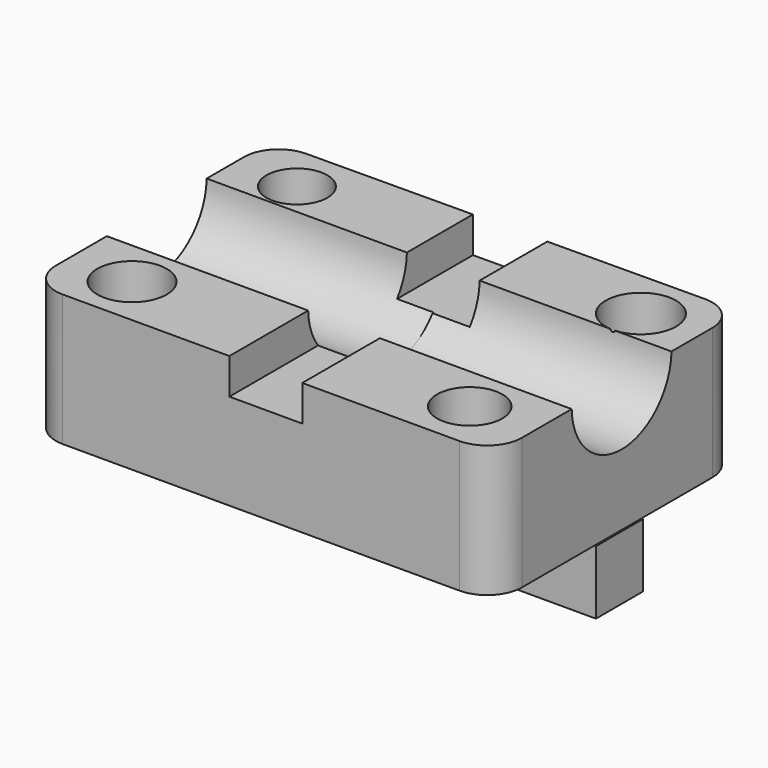
from build123d import *

# Parameters (mm, degrees)
F0_R      = 6.369353
F0_R_2    = 5.980064
F0_R_3    = 5.586292
F0_R_4    = 6.448317
F1_DEPTH  = 24.13
F2_W      = 13.556814
F2_H      = 8.429615
F3_DEPTH  = 37.846
F4_W      = 13.355822
F4_H      = 12.236101
F5_DEPTH  = 46.736
F6_R      = 11.43
F7_DEPTH  = 53.594
F8_R      = 11.43
F9_DEPTH  = 57.404
F10_W     = 85.677572
F10_H     = 10.745444
F11_DEPTH = 11.684


with BuildPart() as f1:
    # F0 (on Top) → F1 (new body)
    with BuildSketch(Plane.XY):
        with BuildLine():
            ThreePointArc((-37.110602, 26.470889), (-41.57278, 24.595866), (-43.417405, 20.121036))
            Line((-43.417405, 20.121036), (-43.417405, -22.982161))
            ThreePointArc((-43.417405, -22.982161), (-41.557533, -27.472289), (-37.067405, -29.332161))
            Line((-37.067405, -29.332161), (35.615317, -29.332161))
            ThreePointArc((35.615317, -29.332161), (40.105445, -27.472289), (41.965317, -22.982161))
            Line((41.965317, -22.982161), (41.965317, 20.615476))
            ThreePointArc((41.965317, 20.615476), (40.090147, 25.120851), (35.572121, 26.965329))
            Line((35.572121, 26.965329), (-37.110602, 26.470889))
        make_face()
        with Locations((-31.80071, -20.038802)):
            Circle(F0_R, mode=Mode.SUBTRACT)
        with Locations((30.058201, -20.038802)):
            Circle(F0_R_2, mode=Mode.SUBTRACT)
        with Locations((-31.80071, 17.715463)):
            Circle(F0_R_3, mode=Mode.SUBTRACT)
        with Locations((31.21987, 17.715463)):
            Circle(F0_R_4, mode=Mode.SUBTRACT)
    extrude(amount=F1_DEPTH)

    # F2 (on Front) → F3 (cut)
    with BuildSketch(Plane.XZ):
        with Locations((0.043029, 21.780576)):
            Rectangle(F2_W, F2_H)
    extrude(amount=-F3_DEPTH, mode=Mode.SUBTRACT)

    # F4 (on Front) → F5 (cut)
    with BuildSketch(Plane.XZ):
        with Locations((0.143518, 23.694851)):
            Rectangle(F4_W, F4_H)
    extrude(amount=F5_DEPTH, mode=Mode.SUBTRACT)

    # F6 (on Right) → F7 (cut)
    with BuildSketch(Plane.YZ):
        with Locations((0.145212, 24.395064)):
            Circle(F6_R)
    extrude(amount=-F7_DEPTH, mode=Mode.SUBTRACT)

    # F8 (on Right) → F9 (cut)
    with BuildSketch(Plane.YZ):
        with Locations((-0.145212, 24.395064)):
            Circle(F8_R)
    extrude(amount=F9_DEPTH, mode=Mode.SUBTRACT)

    # F10 (on Top) → F11 (join)
    with BuildSketch(Plane.XY):
        with Locations((-0.578619, -1.016461)):
            Rectangle(F10_W, F10_H)
    extrude(amount=-F11_DEPTH)


solid = f1.part
